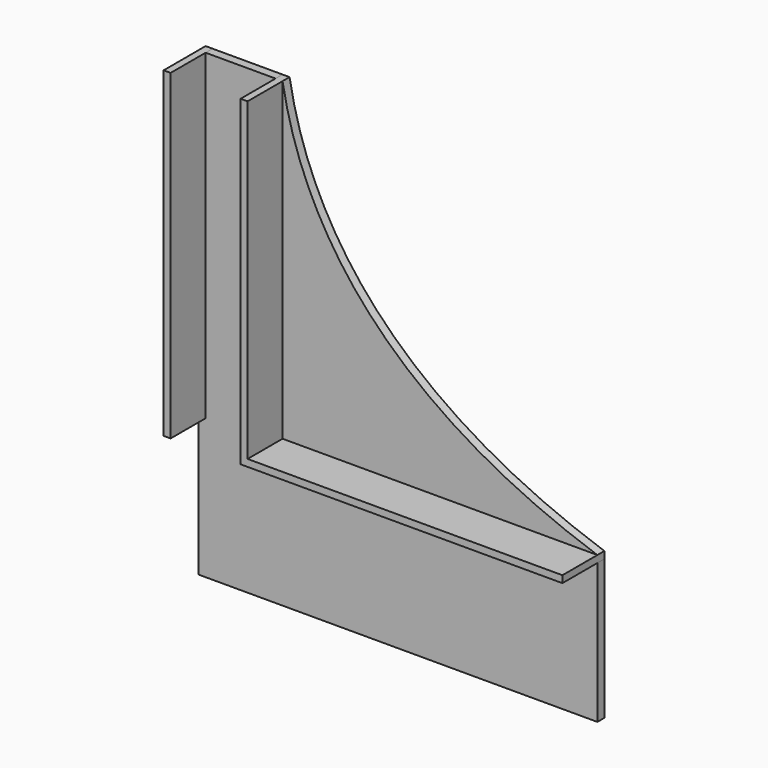
from build123d import *

# Parameters (mm, degrees)
F0_W     = 20
F0_H     = 92
F1_DEPTH = 2.5
F0_W_2   = 2
F2_DEPTH = 15


with BuildPart() as f1:
    # F0 (on Front) → F1 (new body)
    with BuildSketch(Plane.XZ):
        with BuildLine():
            add(Edge.make_bspline(
                [(-42.980848, 63.047259), (-36.459113, 24.786392), (-9.067804, -7.822306), (47.019152, -26.952741)],
                knots=[0, 0, 0, 0, 127.279221, 127.279221, 127.279221, 127.279221], degree=3))
            Line((-42.980848, 63.047259), (-42.980848, -26.952741))
            Line((-42.980848, -26.952741), (47.019152, -26.952741))
        make_face()
        Polygon((47.019152, -28.952741), (-44.980848, -28.952741), (-64.980848, -28.952741), (-66.980848, -28.952741), (-66.980848, -68.952741), (47.019152, -68.952741), align=None)
        with Locations((-54.980848, 17.047259)):
            Rectangle(F0_W, F0_H)
    extrude(amount=F1_DEPTH)


with BuildPart() as f2:
    # F0 (on Front) → F2 (new body)
    with BuildSketch(Plane.XZ):
        with Locations((-65.980848, 17.047259)):
            Rectangle(F0_W_2, F0_H)
        Polygon((-42.980848, -26.952741), (-42.980848, 63.047259), (-44.980848, 63.047259), (-44.980848, -28.952741), (47.019152, -28.952741), (47.019152, -26.952741), align=None)
    extrude(amount=F2_DEPTH)


solid = Compound([f1.part, f2.part])
